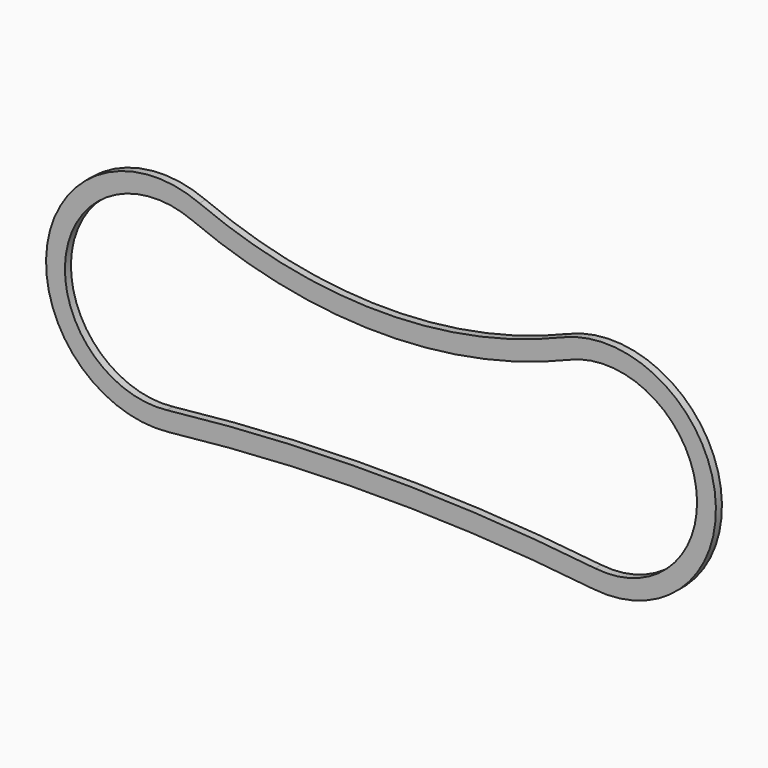
from build123d import *

# Parameters (mm, degrees)
F1_DEPTH = 20


with BuildPart() as f1:
    # F0 (on Front) → F1 (new body)
    with BuildSketch(Plane.XZ):
        with BuildLine():
            ThreePointArc((398.917285, 296.98657), (-82.22998, 199.598037), (-563.377245, 296.98657))
            ThreePointArc((-563.377245, 296.98657), (-966.992355, 69.098783), (-644.317861, -263.64612))
            ThreePointArc((-644.317861, -263.64612), (-82.22998, -231.951386), (479.8579, -263.64612))
            ThreePointArc((479.8579, -263.64612), (802.532395, 69.098783), (398.917285, 296.98657))
        make_face()
        with BuildLine():
            ThreePointArc((-649.93874, -213.963068), (-917.505442, 61.954175), (-582.821524, 250.922267))
            ThreePointArc((-582.821524, 250.922267), (-82.22998, 149.598037), (418.361563, 250.922267))
            ThreePointArc((418.361563, 250.922267), (753.045482, 61.954175), (485.478779, -213.963068))
            ThreePointArc((485.478779, -213.963068), (-82.22998, -181.951386), (-649.93874, -213.963068))
        make_face(mode=Mode.SUBTRACT)
    extrude(amount=F1_DEPTH)


solid = f1.part
